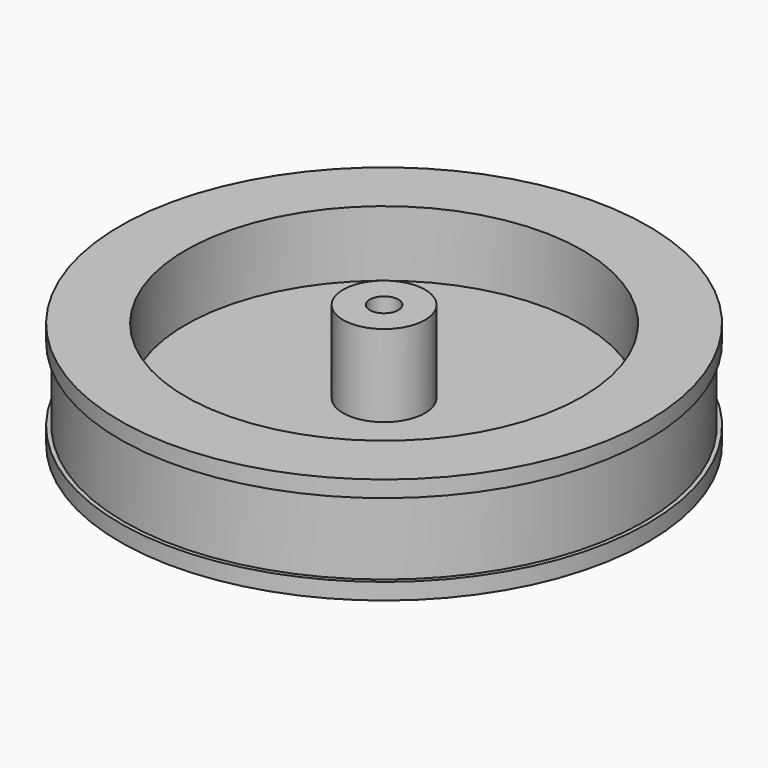
from build123d import *

# Parameters (mm, degrees)
F0_W     = 5
F0_H     = 10
F3_R     = 1.75
F4_DEPTH = 40


with BuildPart() as f1:
    # F0 (on Front) → F1 (revolve)
    with BuildSketch(Plane.XZ):
        with Locations((2.5, 10)):
            Rectangle(F0_W, F0_H)
        Polygon((0, 5), (0, 0), (32.2, 0), (32.2, 2), (31.7, 2), (31.7, 11), (32.2, 11), (32.2, 13), (24.2, 13), (24.2, 5), (5, 5), align=None)
    revolve(axis=Axis((0, 0, 10), (0, 0, 1)))

    # F3 (on face) → F4 (cut)
    with BuildSketch(Plane.XY.offset(15)):
        Circle(F3_R)
    extrude(amount=-F4_DEPTH, mode=Mode.SUBTRACT)


solid = f1.part
